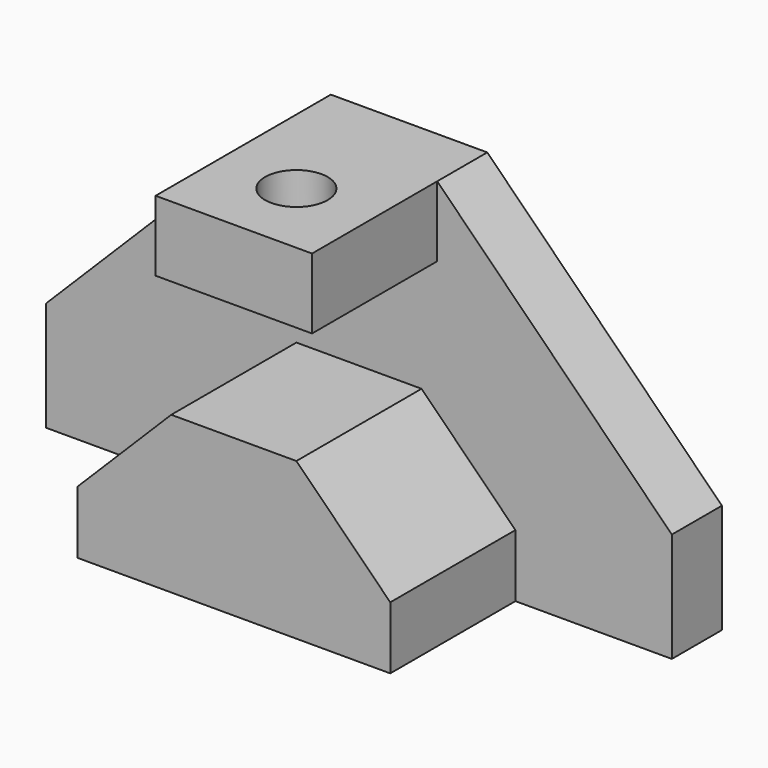
from build123d import *

# Parameters (mm, degrees)
F1_DEPTH = 12.7
F3_DEPTH = 31.75
F4_W     = 31.75
F4_H     = 31.75
F5_DEPTH = 14.2875
F6_R     = 6.35
F7_DEPTH = 25.4


with BuildPart() as f1:
    # F0 (on Front) → F1 (new body)
    with BuildSketch(Plane.XZ):
        Polygon((-74.188948, 10.506319), (-74.188948, -11.718681), (52.811052, -11.718681), (52.811052, 10.506319), (5.186052, 58.131319), (-26.563948, 58.131319), align=None)
    extrude(amount=F1_DEPTH)

    # F2 (on face) → F3 (join)
    with BuildSketch(Plane.XZ.offset(12.7)):
        Polygon((-42.438948, 0.981319), (-42.438948, -11.718681), (21.061052, -11.718681), (21.061052, 0.981319), (2.011052, 20.031319), (-23.388948, 20.031319), align=None)
    extrude(amount=F3_DEPTH)

    # F4 (on face) → F5 (join)
    with BuildSketch(Plane.XY.offset(58.131319)):
        with Locations((-10.688948, -28.575)):
            Rectangle(F4_W, F4_H)
    extrude(amount=-F5_DEPTH)

    # F6 (on face) → F7 (cut)
    with BuildSketch(Plane.XY.offset(58.131319)):
        with Locations((-10.688948, -28.575)):
            Circle(F6_R)
    extrude(amount=-F7_DEPTH, mode=Mode.SUBTRACT)


solid = f1.part
